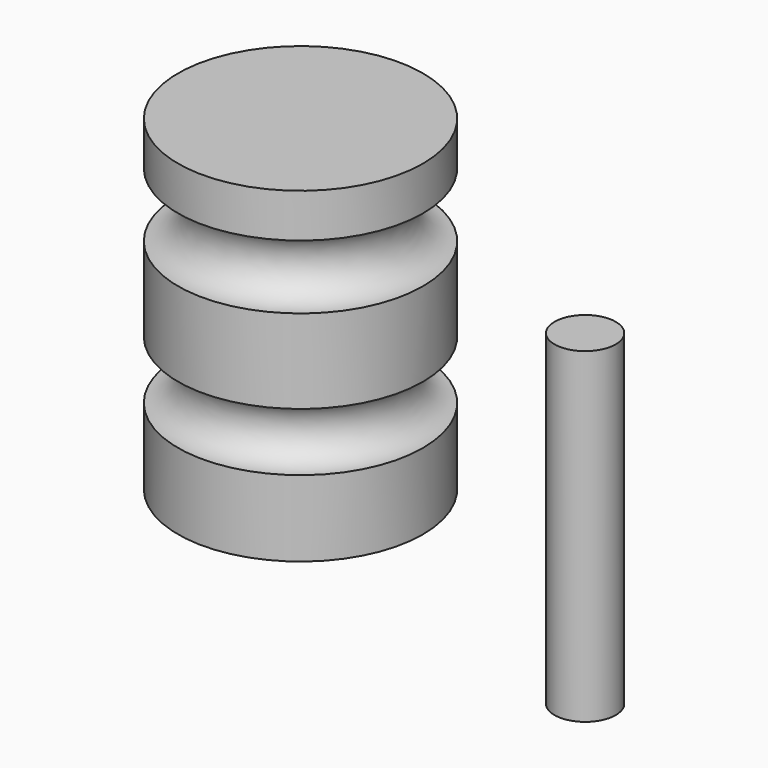
from build123d import *

# Parameters (mm, degrees)
F0_R     = 7.0739
F2_R     = 9.525
F3_DEPTH = 25.4
F4_R     = 12.7
F5_DEPTH = 76.2
F6_R     = 9.525
F7_DEPTH = 101.6


with BuildPart() as f1:
    # F0 (on Front) → F1 (revolve)
    with BuildSketch(Plane.XZ):
        with BuildLine():
            Line((-20.714034, 101.6), (-58.814034, 101.6))
            Line((-58.814034, 101.6), (-58.814034, 0))
            Line((-58.814034, 0), (-20.714034, 0))
            Line((-20.714034, 0), (-20.714034, 23.679914))
            ThreePointArc((-20.714034, 23.679914), (-29.784358, 32.750238), (-20.714034, 41.820562))
            Line((-20.714034, 41.820562), (-20.714034, 67.99218))
            ThreePointArc((-20.714034, 67.99218), (-30.696523, 77.97467), (-20.714034, 87.957159))
            Line((-20.714034, 87.957159), (-20.714034, 101.6))
        make_face()
        with Locations((-41.267421, 57.478864)):
            Circle(F0_R, mode=Mode.SUBTRACT)
    revolve(axis=Axis((-58.814034, 0, 50.8), (0, 0, -1)))

    # F2 (on Front) → F3 (cut)
    with BuildSketch(Plane.XZ):
        with Locations((-57.975955, 54.805499)):
            Circle(F2_R)
    extrude(amount=-F3_DEPTH, mode=Mode.SUBTRACT)

    # F4 (on Top) → F5 (join)
    with BuildSketch(Plane.XY):
        with Locations((-56.528635, 0)):
            Circle(F4_R)
    extrude(amount=F5_DEPTH)


with BuildPart() as f7:
    # F6 (on Top) → F7 (new body)
    with BuildSketch(Plane.XY):
        with Locations((65.777816, -45.001648)):
            Circle(F6_R)
    extrude(amount=F7_DEPTH)


solid = Compound([f1.part, f7.part])
